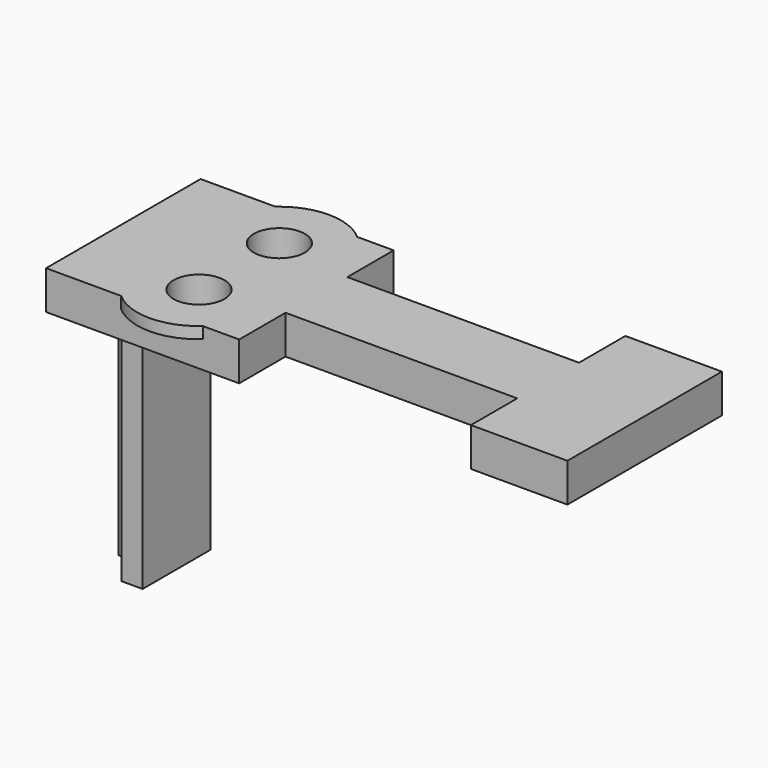
from build123d import *

# Parameters (mm, degrees)
F0_W           = 135
F0_H           = 10
F1_DEPTH       = 25
F4_DEPTH       = 75
F6_DEPTH       = 3
F7_W           = 60
F7_H           = 15
F8_DEPTH       = 25
F9_D           = 13.2
F9_CBORE_D     = 23
F9_CBORE_DEPTH = 0


with BuildPart() as f1:
    # F0 (on Front) → F1 (new body, symmetric)
    with BuildSketch(Plane.XZ):
        Rectangle(F0_W, F0_H)
    extrude(amount=F1_DEPTH, both=True)

    # F3 (on face) → F4 (join)
    with BuildSketch(Plane.XY.offset(5)):
        Polygon((-60, 3.5), (-67.5, 3.5), (-67.5, -1.5), (-60, -1.5), (-60, -10), (-54.5, -10), (-54.5, 12), (-60, 12), align=None)
    extrude(amount=-F4_DEPTH)

    # F5 (on face) → F6 (join)
    with BuildSketch(Plane.XY.offset(5)):
        with BuildLine():
            ThreePointArc((-28.172621, 0), (-23.265569, 5.693772), (-21.5, 13))
            ThreePointArc((-21.5, 13), (-44.806228, 27.234431), (-46.827379, 0))
            ThreePointArc((-46.827379, 0), (-37.5, 3), (-28.172621, 0))
        make_face()
        with BuildLine():
            ThreePointArc((-28.172621, 0), (-37.5, -3), (-46.827379, 0))
            ThreePointArc((-46.827379, 0), (-44.806228, -27.234431), (-21.5, -13))
            ThreePointArc((-21.5, -13), (-23.265569, -5.693772), (-28.172621, 0))
        make_face()
    extrude(amount=-F6_DEPTH)

    # F7 (on face) → F8 (cut)
    with BuildSketch(Plane(origin=(0, 0, -5), x_dir=(1, 0, 0), z_dir=(0, 0, -1))):
        with Locations((12.5, 17.5)):
            Rectangle(F7_W, F7_H)
        with Locations((12.5, -17.5)):
            Rectangle(F7_W, F7_H)
    extrude(amount=-F8_DEPTH, mode=Mode.SUBTRACT)

    # F9 (through all)
    with Locations(Plane(origin=(0, 0, -5), x_dir=(1, 0, 0), z_dir=(0, 0, -1))):
        with Locations((-37.5, 13), (-37.5, -13)):
            CounterBoreHole(F9_D / 2, F9_CBORE_D / 2, F9_CBORE_DEPTH)


solid = f1.part
